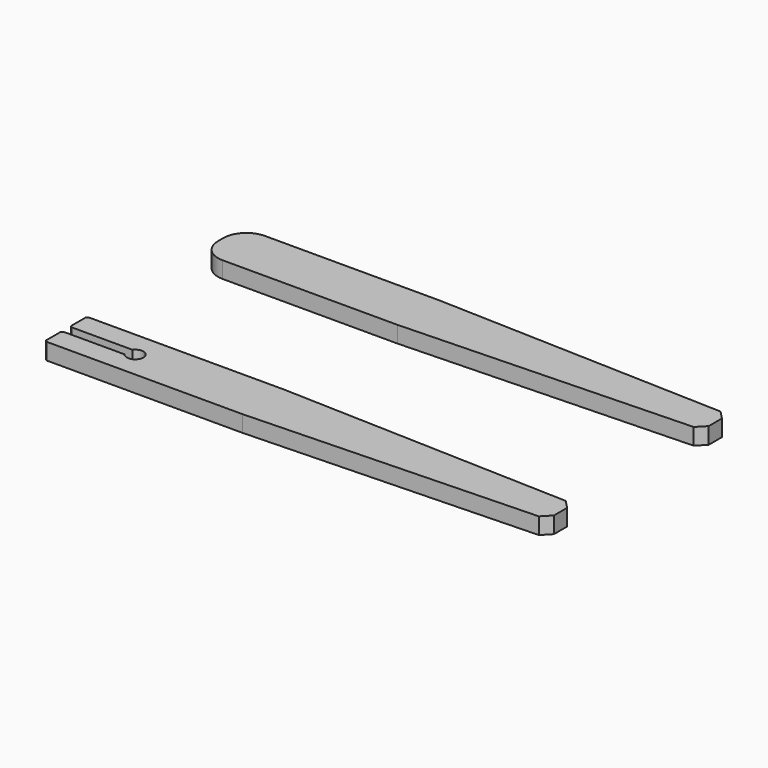
from build123d import *

# Parameters (mm, degrees)
F1_DEPTH = 10
F2_R     = 14
F3_SIZE  = 5
F4_SIZE  = 1


with BuildPart() as f1:
    # F0 (on Top) → F1 (new body)
    with BuildSketch(Plane.XY):
        with BuildLine():
            Line((-1.2e-05, -111.371517), (-1.2e-05, -91.371517))
            Line((-1.2e-05, -91.371517), (-180.000012, -85.371517))
            Line((-180.000012, -85.371517), (-300.000012, -85.371517))
            Line((-300.000012, -85.371517), (-300.000012, -98.371517))
            Line((-300.000012, -98.371517), (-262.000012, -98.371517))
            ThreePointArc((-262.000012, -98.371517), (-253.000012, -101.371517), (-262.000012, -104.371517))
            Line((-262.000012, -104.371517), (-300.000012, -104.371517))
            Line((-300.000012, -104.371517), (-300.000012, -117.371517))
            Line((-300.000012, -117.371517), (-180.000012, -117.371517))
            Line((-180.000012, -117.371517), (-1.2e-05, -111.371517))
        make_face()
        Polygon((0, 6), (0, 26), (-180, 32), (-300, 32), (-300, 0), (-180, 0), align=None)
    extrude(amount=F1_DEPTH)

    # F2
    f2_edges = [f1.edges().sort_by_distance(p)[0] for p in [
        (-300, 32, 5),
        (-300, 0, 5),
    ]]
    fillet(f2_edges, radius=F2_R)

    # F3
    f3_edges = [f1.edges().sort_by_distance(p)[0] for p in [
        (0, 26, 5),
        (0, 6, 5),
        (-1.2e-05, -91.371517, 5),
        (-1.2e-05, -111.371517, 5),
    ]]
    chamfer(f3_edges, length=F3_SIZE)

    # F4
    f4_edges = [f1.edges().sort_by_distance(p)[0] for p in [
        (-300.000012, -85.371517, 5),
        (-300.000012, -98.371517, 5),
        (-300.000012, -104.371517, 5),
        (-300.000012, -117.371517, 5),
    ]]
    chamfer(f4_edges, length=F4_SIZE)


solid = f1.part
